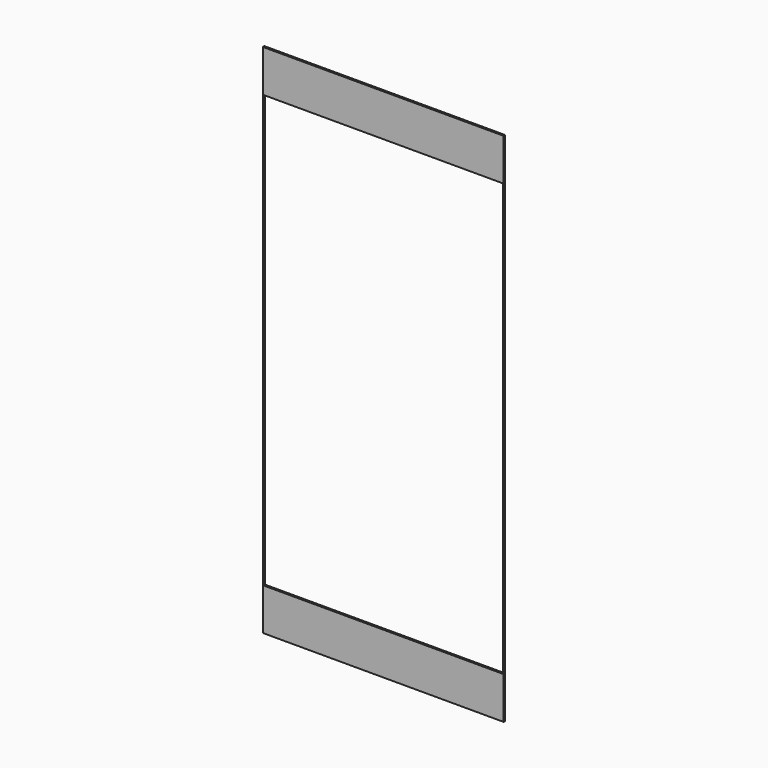
from build123d import *

# Parameters (mm, degrees)
F0_W      = 64.7
F0_H      = 138.7
F1_DEPTH  = 2
F1_FACE_W = 64.7
F1_FACE_H = 138.7
F2_DEPTH  = 1.5
F3_W      = 64.5
F3_H      = 116.084408
F4_DEPTH  = 43.240232


with BuildPart() as f1:
    # F0 (on Front) → F1 (new body)
    with BuildSketch(Plane.XZ):
        Rectangle(F0_W, F0_H)
    extrude(amount=F1_DEPTH)

    # F1_face (on face) → F2 (cut)
    with BuildSketch(Plane(origin=(0, 0, 0), x_dir=(1, 0, 0), z_dir=(0, 1, 0))):
        Rectangle(F1_FACE_W, F1_FACE_H)
    extrude(amount=-F2_DEPTH, mode=Mode.SUBTRACT)

    # F3 (on Front) → F4 (cut)
    with BuildSketch(Plane.XZ):
        Rectangle(F3_W, F3_H)
    extrude(amount=F4_DEPTH, mode=Mode.SUBTRACT)


solid = f1.part
